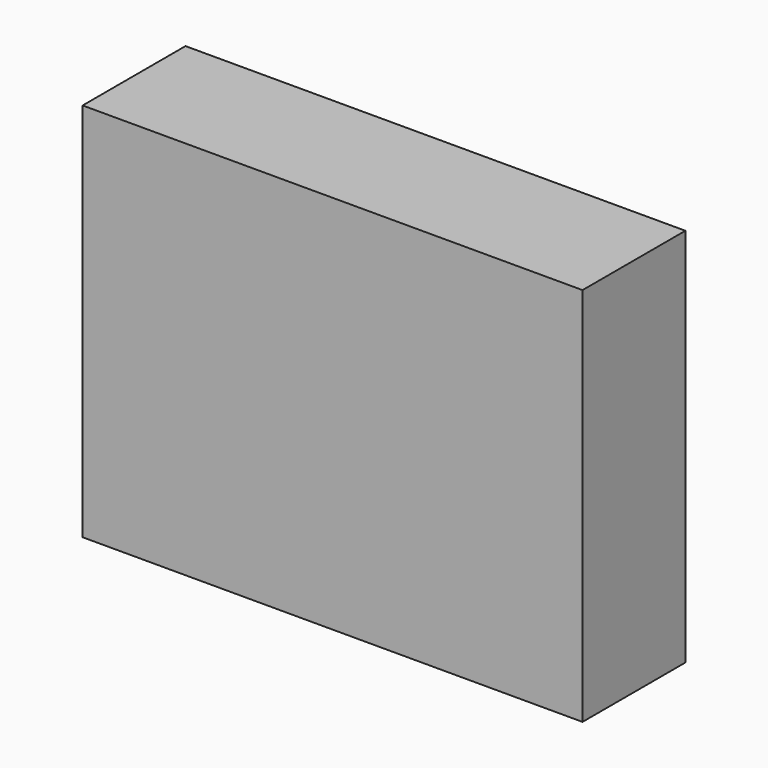
from build123d import *

# Parameters (mm, degrees)
F0_W     = 100.744657
F0_H     = 76.6128
F1_DEPTH = 30.988
F2_SIZE  = 5.08


with BuildPart() as f1:
    # F0 (on Front) → F1 (new body)
    with BuildSketch(Plane.XZ):
        with Locations((9.840175, 0.93716)):
            Rectangle(F0_W, F0_H)
    extrude(amount=-F1_DEPTH)

    # F2
    f2_edges = [f1.edges().sort_by_distance(p)[0] for p in [
        (9.840176, 30.988, 39.24356),
        (-40.532153, 30.988, 0.93716),
        (9.840176, 30.988, -37.36924),
        (60.212504, 30.988, 0.93716),
    ]]
    chamfer(f2_edges, length=F2_SIZE)


solid = f1.part
